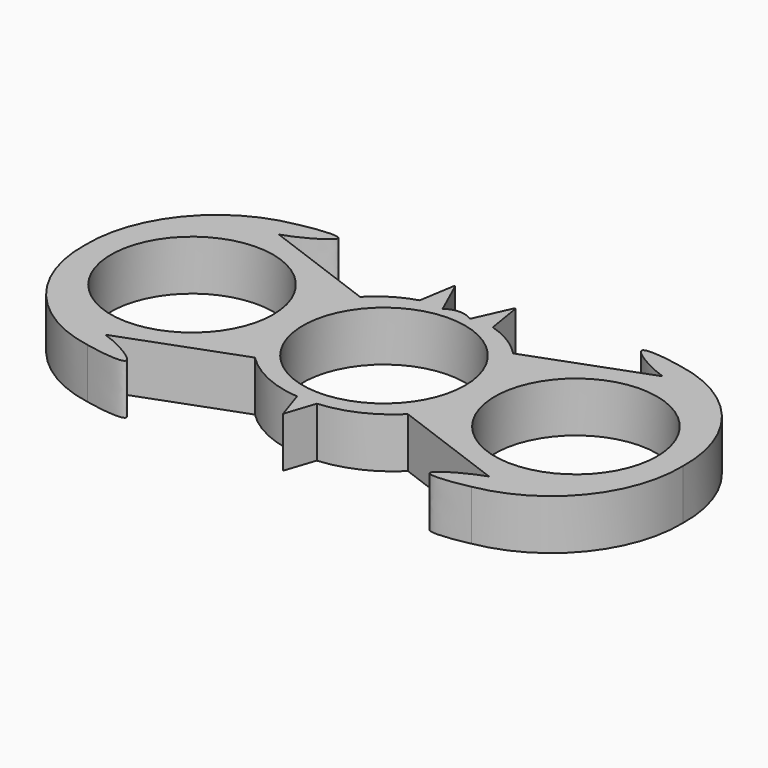
from build123d import *

# Parameters (mm, degrees)
F0_R     = 11.3175
F1_DEPTH = 7


with BuildPart() as f1:
    # F0 (on Top) → F1 (new body)
    with BuildSketch(Plane.XY):
        with BuildLine():
            Line((-4.290395086, 17.5929758698), (-5.0968573363, 12.6047609374))
            ThreePointArc((-5.0968573363, 12.6047609374), (-8.1126471986, 11.2557929731), (-10.6780268249, 9.1740796317))
            Line((-10.6780268249, 9.1740796317), (-26.7856623974, 15.1404356559))
            add(Edge.make_bspline(
                [(-26.7856623974, 18.2235073295), (-24.4614947585, 18.7465790655), (-17.7473041351, 19.5727238507), (-24.8232074869, 15.7483035976), (-26.7856623974, 15.1404356559)],
                knots=[0, 0, 0, 0, 0.4812154975, 1, 1, 1, 1], degree=3))
            ThreePointArc((-26.7856623974, 18.2235073295), (-37.6467894519, 11.8899380244), (-41.7342770438, 0))
            ThreePointArc((-41.7342770438, 0), (-37.6467894519, -11.8899380244), (-26.7856623974, -18.2235073295))
            add(Edge.make_bspline(
                [(-26.7856623974, -18.2235073295), (-24.4614947585, -18.7465790655), (-17.7473041351, -19.5727238507), (-24.8232074869, -15.7483035976), (-26.7856623974, -15.1404356559)],
                knots=[0, 0, 0, 0, 0.4812154975, 1, 1, 1, 1], degree=3))
            Line((-26.7856623974, -15.1404356559), (-10.6780268249, -9.1740796317))
            ThreePointArc((-10.6780268249, -9.1740796317), (-6.4090636857, -12.1387429052), (-1.3792073587, -13.447872363))
            Line((-1.3792073587, -13.447872363), (0, -17.6072642207))
            Line((0, -17.6072642207), (1.3792073587, -13.447872363))
            ThreePointArc((1.3792073587, -13.447872363), (6.4090636857, -12.1387429052), (10.6780268249, -9.1740796317))
            Line((10.6780268249, -9.1740796317), (26.7856623974, -15.1404356559))
            add(Edge.make_bspline(
                [(26.7856623974, -18.2235073295), (24.4614947585, -18.7465790655), (17.7473041351, -19.5727238507), (24.8232074869, -15.7483035976), (26.7856623974, -15.1404356559)],
                knots=[0, 0, 0, 0, 0.4812154975, 1, 1, 1, 1], degree=3))
            ThreePointArc((26.7856623974, -18.2235073295), (37.6467894519, -11.8899380244), (41.7342770438, 0))
            ThreePointArc((41.7342770438, 0), (37.6467894519, 11.8899380244), (26.7856623974, 18.2235073295))
            add(Edge.make_bspline(
                [(26.7856623974, 18.2235073295), (24.4614947585, 18.7465790655), (17.7473041351, 19.5727238507), (24.8232074869, 15.7483035976), (26.7856623974, 15.1404356559)],
                knots=[0, 0, 0, 0, 0.4812154975, 1, 1, 1, 1], degree=3))
            Line((26.7856623974, 15.1404356559), (10.6780268249, 9.1740796317))
            ThreePointArc((10.6780268249, 9.1740796317), (8.1126471986, 11.2557929731), (5.0968573363, 12.6047609374))
            Line((5.0968573363, 12.6047609374), (4.290395086, 17.5929758698))
            Line((4.290395086, 17.5929758698), (4.1471831501, 17.5929758698))
            Line((4.1471831501, 17.5929758698), (1.8972994294, 12.6047609374))
            ThreePointArc((1.8972994294, 12.6047609374), (0, 13.2116865157), (-1.8972994294, 12.6047609374))
            Line((-1.8972994294, 12.6047609374), (-4.1471831501, 17.5929758698))
            Line((-4.1471831501, 17.5929758698), (-4.290395086, 17.5929758698))
        make_face()
        with Locations((-26.7856623974, 0)):
            Circle(F0_R, mode=Mode.SUBTRACT)
        Circle(F0_R, mode=Mode.SUBTRACT)
        with Locations((26.7856623974, 0)):
            Circle(F0_R, mode=Mode.SUBTRACT)
    extrude(amount=F1_DEPTH)


solid = f1.part
